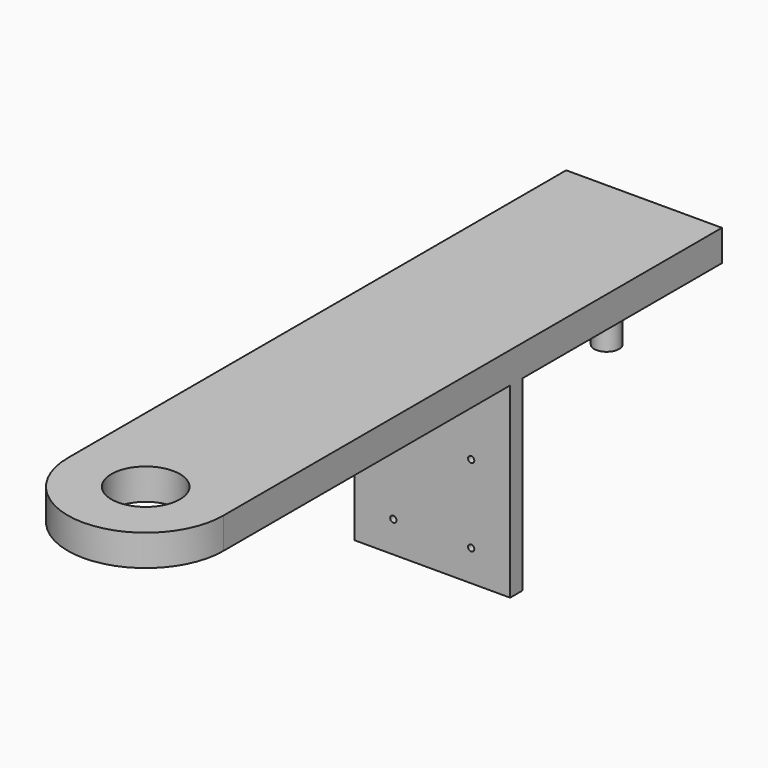
from build123d import *

# Parameters (mm, degrees)
F0_R     = 11
F0_W     = 50
F0_H     = 80
F0_R_2   = 7.5
F0_H_2   = 5
F0_R_3   = 4
F1_DEPTH = 10
F2_DEPTH = 60
F3_DEPTH = 10
F4_DEPTH = 25
F5_R     = 1
F6_DEPTH = 25


with BuildPart() as f1:
    # F0 (on Top) → F1 (new body)
    with BuildSketch(Plane.XY):
        with BuildLine():
            Line((-25, 22.8104994827), (-25, -92.1895005173))
            ThreePointArc((-25, -92.1895005173), (0, -117.1895005173), (25, -92.1895005173))
            Line((25, -92.1895005173), (25, 22.8104994827))
            Line((25, 22.8104994827), (-25, 22.8104994827))
        make_face()
        with Locations((0, -92.1895005173)):
            Circle(F0_R, mode=Mode.SUBTRACT)
        with Locations((0, 67.8104994827)):
            Rectangle(F0_W, F0_H)
        with Locations((0, 92.8104994827)):
            Circle(F0_R_2, mode=Mode.SUBTRACT)
        with Locations((0, 25.3104994827)):
            Rectangle(F0_W, F0_H_2)
        with Locations((0, 92.8104994827)):
            Circle(F0_R_2)
        with Locations((0, 92.8104994827)):
            Circle(F0_R_3, mode=Mode.SUBTRACT)
        with Locations((0, 92.8104994827)):
            Circle(F0_R_3)
    extrude(amount=F1_DEPTH)

    # F0 (on Top) → F2 (join)
    with BuildSketch(Plane.XY):
        with Locations((0, 25.3104994827)):
            Rectangle(F0_W, F0_H_2)
    extrude(amount=-F2_DEPTH)

    # F0 (on Top) → F3 (join)
    with BuildSketch(Plane.XY):
        with Locations((0, 92.8104994827)):
            Circle(F0_R_2)
        with Locations((0, 92.8104994827)):
            Circle(F0_R_3, mode=Mode.SUBTRACT)
    extrude(amount=-F3_DEPTH)

    # F0 (on Top) → F4 (join)
    with BuildSketch(Plane.XY):
        with Locations((0, 92.8104994827)):
            Circle(F0_R_3)
    extrude(amount=-F4_DEPTH)

    # F5 (on face) → F6 (cut)
    with BuildSketch(Plane(origin=(0, 27.8104994827, 0), x_dir=(-1, 0, 0), z_dir=(0, 1, 0))):
        with Locations((-12.5, -25)):
            Circle(F5_R)
        with Locations((12.5, -25)):
            Circle(F5_R)
        with Locations((-12.5, -50)):
            Circle(F5_R)
        with Locations((12.5, -50)):
            Circle(F5_R)
    extrude(amount=-F6_DEPTH, mode=Mode.SUBTRACT)


solid = f1.part
